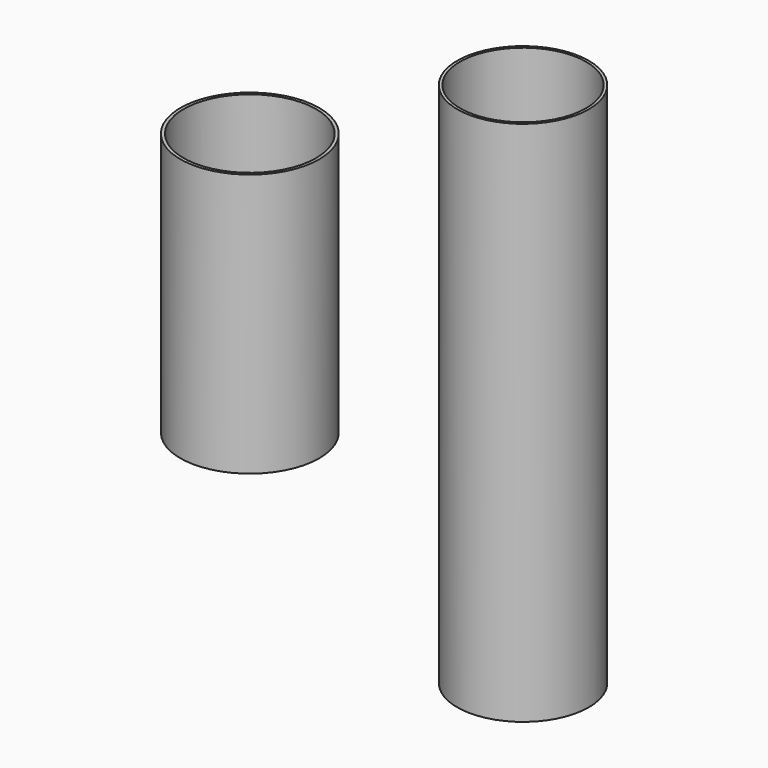
from build123d import *

# Parameters (mm, degrees)
F0_R     = 2.38125
F1_DEPTH = 9.525
F2_R     = 2.281135
F3_DEPTH = 19.05
F0_R_2   = 2.5146
F4_DEPTH = 4.7625
F5_R     = 2.4003
F6_DEPTH = 9.271


with BuildPart() as f1:
    # F0 (on Top) → F1 (new body, symmetric)
    with BuildSketch(Plane.XY):
        Circle(F0_R)
    extrude(amount=F1_DEPTH, both=True)

    # F2 (on face) → F3 (cut)
    with BuildSketch(Plane.XY.offset(9.525)):
        Circle(F2_R)
    extrude(amount=-F3_DEPTH, mode=Mode.SUBTRACT)


with BuildPart() as f4:
    # F0 (on Top) → F4 (new body, symmetric)
    with BuildSketch(Plane.XY):
        with Locations((-9.885069, 0)):
            Circle(F0_R_2)
    extrude(amount=F4_DEPTH, both=True)

    # F5 (on face) → F6 (cut)
    with BuildSketch(Plane.XY.offset(4.7625)):
        with Locations((-9.885069, 0)):
            Circle(F5_R)
    extrude(amount=-F6_DEPTH, mode=Mode.SUBTRACT)


solid = Compound([f1.part, f4.part])
